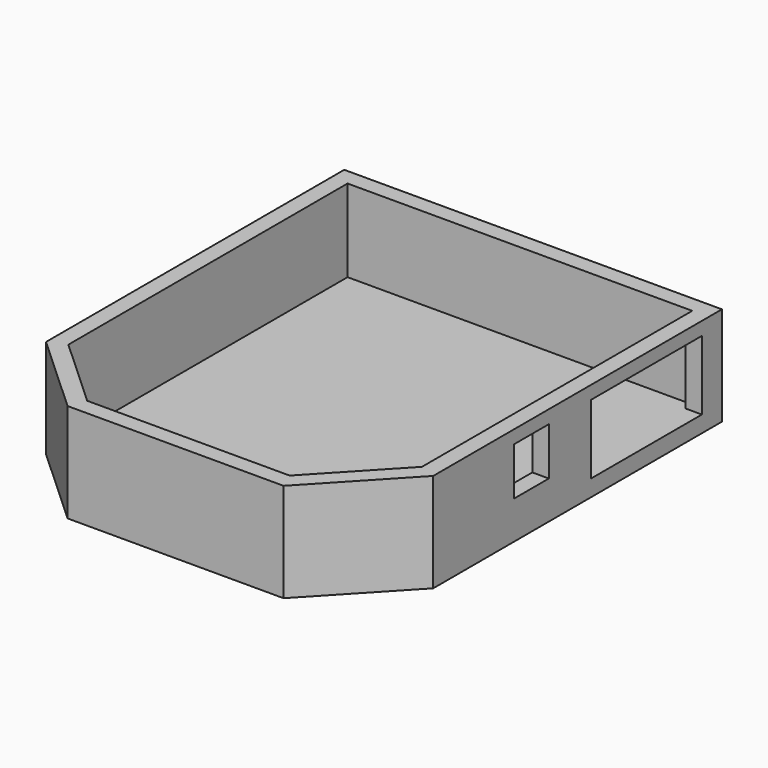
from build123d import *

# Parameters (mm, degrees)
F2_DEPTH = 5
F4_DEPTH = 25
F5_W     = 42
F5_H     = 21
F5_W_2   = 13.2
F5_H_2   = 14.5
F6_DEPTH = 5
F7_DEPTH = 5


with BuildPart() as f2:
    # F0 (on Top) → F2 (new body)
    with BuildSketch(Plane.XY):
        Polygon((28.673304, 123.177742), (-85.826696, 123.177742), (-85.826696, 10.177742), (-61.326696, -12.322258), (4.173304, -12.322258), (28.673304, 13.772988), align=None)
    extrude(amount=-F2_DEPTH)

    # F3 (on face) → F4 (join)
    with BuildSketch(Plane.XY):
        Polygon((4.173304, -12.322258), (28.673304, 13.772988), (28.673304, 123.177742), (-85.826696, 123.177742), (-85.826696, 10.177742), (-61.326696, -12.322258), align=None)
        Polygon((-80.826696, 118.177742), (23.673304, 118.177742), (23.673304, 15.75233), (2.009304, -7.322258), (-59.37912, -7.322258), (-80.826696, 12.374496), align=None, mode=Mode.SUBTRACT)
    extrude(amount=F4_DEPTH)

    # F5 (on face) → F6 (cut)
    with BuildSketch(Plane.YZ.offset(28.673304)):
        with Locations((94.577742, 10.5)):
            Rectangle(F5_W, F5_H)
        with Locations((50.977742, 13.75)):
            Rectangle(F5_W_2, F5_H_2)
    extrude(amount=F6_DEPTH, mode=Mode.SUBTRACT)

    # F5 (on face) → F7 (cut, through all)
    with BuildSketch(Plane.YZ.offset(28.673304)):
        with Locations((94.577742, 10.5)):
            Rectangle(F5_W, F5_H)
        with Locations((50.977742, 13.75)):
            Rectangle(F5_W_2, F5_H_2)
    extrude(amount=-F7_DEPTH, mode=Mode.SUBTRACT)


solid = f2.part
